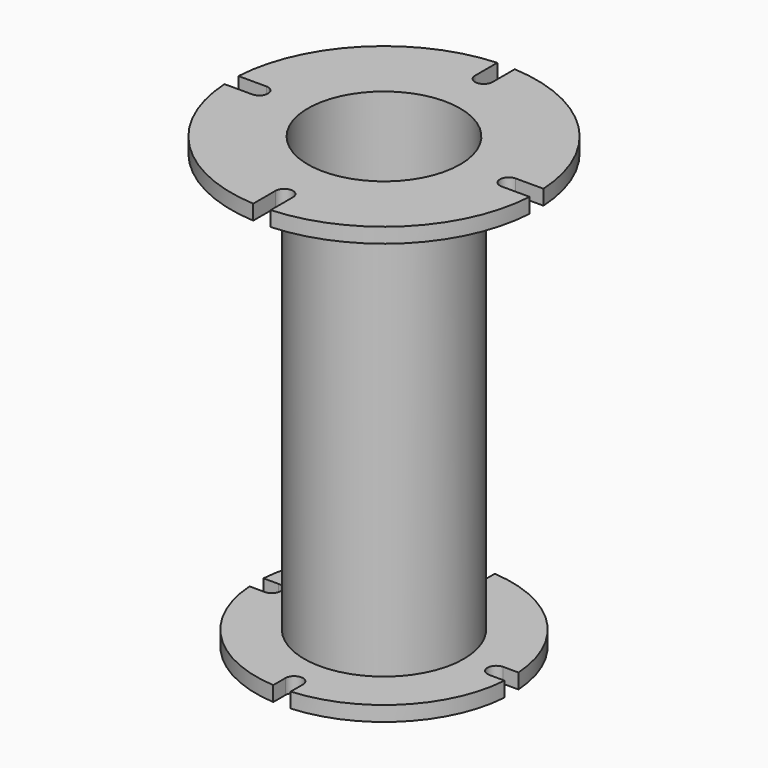
from build123d import *

# Parameters (mm, degrees)
F0_R     = 64
F0_R_2   = 61
F1_DEPTH = 360
F2_R     = 64
F3_DEPTH = 12
F4_R     = 64
F5_DEPTH = 12


with BuildPart() as f1:
    # F0 (on Top) → F1 (new body)
    with BuildSketch(Plane.XY):
        Circle(F0_R)
        Circle(F0_R_2, mode=Mode.SUBTRACT)
    extrude(amount=F1_DEPTH)

    # F2 (on face) → F3 (join)
    with BuildSketch(Plane.XY.offset(360)):
        with BuildLine():
            Line((-100, -7), (-122.299836, -7))
            ThreePointArc((-122.299836, -7), (-86.620581, -86.620581), (-7, -122.299836))
            Line((-7, -122.299836), (-7, -100))
            ThreePointArc((-7, -100), (0, -93), (7, -100))
            Line((7, -100), (7, -122.299836))
            ThreePointArc((7, -122.299836), (86.620581, -86.620581), (122.299836, -7))
            Line((122.299836, -7), (100, -7))
            ThreePointArc((100, -7), (93, 0), (100, 7))
            Line((100, 7), (122.299836, 7))
            ThreePointArc((122.299836, 7), (86.620581, 86.620581), (7, 122.299836))
            Line((7, 122.299836), (7, 100))
            ThreePointArc((7, 100), (0, 93), (-7, 100))
            Line((-7, 100), (-7, 122.299836))
            ThreePointArc((-7, 122.299836), (-86.620581, 86.620581), (-122.299836, 7))
            Line((-122.299836, 7), (-100, 7))
            ThreePointArc((-100, 7), (-93, 0), (-100, -7))
        make_face()
        Circle(F2_R, mode=Mode.SUBTRACT)
    extrude(amount=-F3_DEPTH)

    # F4 (on face) → F5 (join)
    with BuildSketch(Plane(origin=(0, 0, 0), x_dir=(1, 0, 0), z_dir=(0, 0, -1))):
        with BuildLine():
            Line((-7, 90), (-7, 102.260696))
            ThreePointArc((-7, 102.260696), (-72.478445, 72.478445), (-102.260696, 7))
            Line((-102.260696, 7), (-90, 7))
            ThreePointArc((-90, 7), (-83, 0), (-90, -7))
            Line((-90, -7), (-102.260696, -7))
            ThreePointArc((-102.260696, -7), (-72.478445, -72.478445), (-7, -102.260696))
            Line((-7, -102.260696), (-7, -90))
            ThreePointArc((-7, -90), (0, -83), (7, -90))
            Line((7, -90), (7, -102.260696))
            ThreePointArc((7, -102.260696), (72.478445, -72.478445), (102.260696, -7))
            Line((102.260696, -7), (90, -7))
            ThreePointArc((90, -7), (83, 0), (90, 7))
            Line((90, 7), (102.260696, 7))
            ThreePointArc((102.260696, 7), (72.478445, 72.478445), (7, 102.260696))
            Line((7, 102.260696), (7, 90))
            ThreePointArc((7, 90), (0, 83), (-7, 90))
        make_face()
        Circle(F4_R, mode=Mode.SUBTRACT)
    extrude(amount=-F5_DEPTH)


solid = f1.part
